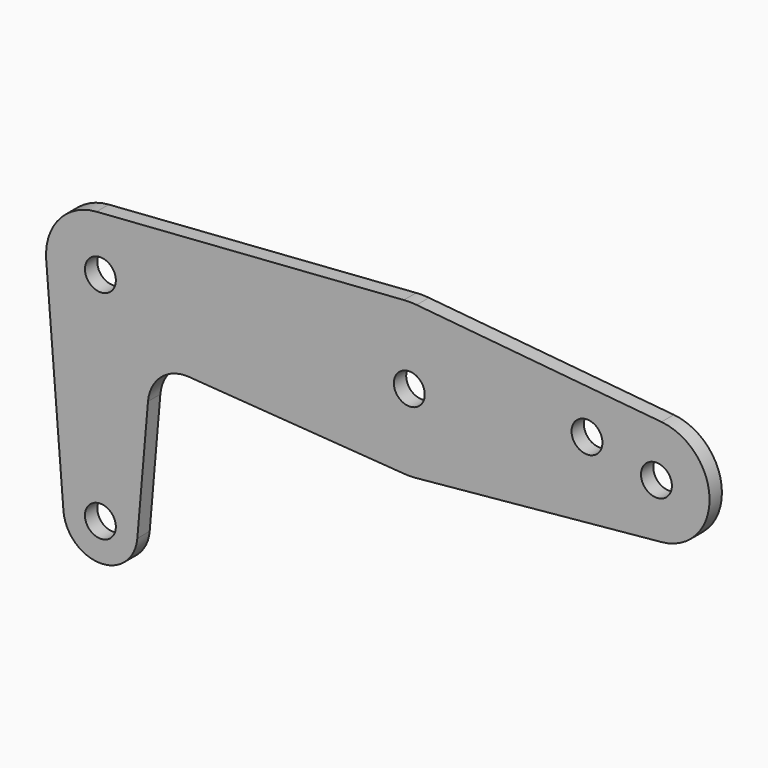
from build123d import *

# Parameters (mm, degrees)
F0_R     = 1.25
F1_DEPTH = 1.25


with BuildPart() as f1:
    # F0 (on Front) → F1 (new body)
    with BuildSketch(Plane.XZ):
        with BuildLine():
            Line((24.5536, 16.676832), (-0.3168, 14.881504))
            ThreePointArc((-0.3168, 14.881504), (-3.338363, 13.359163), (-4.385987, 10.142044))
            Line((-4.385987, 10.142044), (-2.990446, -7.302223))
            ThreePointArc((-2.990446, -7.302223), (-0.008807, -10.062975), (2.98899, -7.319777))
            Line((2.98899, -7.319777), (3.851377, 2.718273))
            ThreePointArc((3.851377, 2.718273), (4.926203, 4.809747), (7.159751, 5.545125))
            Line((7.159751, 5.545125), (24.560498, 4.30852))
            ThreePointArc((24.560498, 4.30852), (25.075008, 4.293377), (25.589, 4.320964))
            Line((25.589, 4.320964), (45.4085, 6.212371))
            ThreePointArc((45.4085, 6.212371), (49.3, 10.492923), (45.4085, 14.773475))
            Line((45.4085, 14.773475), (25.589, 16.664882))
            ThreePointArc((25.589, 16.664882), (25.07155, 16.69251), (24.5536, 16.676832))
        make_face()
        with Locations((0, -7.062988)):
            Circle(F0_R, mode=Mode.SUBTRACT)
        with Locations((0, 10.492923)):
            Circle(F0_R, mode=Mode.SUBTRACT)
        with Locations((25, 10.492923)):
            Circle(F0_R, mode=Mode.SUBTRACT)
        with Locations((39.38, 11.742923)):
            Circle(F0_R, mode=Mode.SUBTRACT)
        with Locations((45, 10.492923)):
            Circle(F0_R, mode=Mode.SUBTRACT)
    extrude(amount=F1_DEPTH)


solid = f1.part
